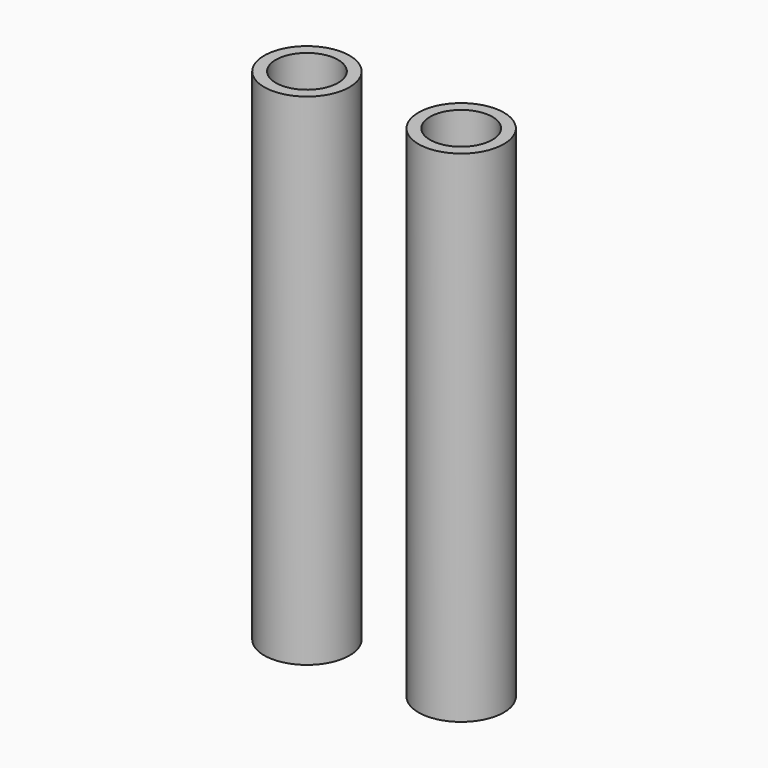
from build123d import *

# Parameters (mm, degrees)
F0_R     = 11.1
F0_R_2   = 8.1
F1_DEPTH = 130
F2_DEPTH = 130
F3_R     = 9.39300938
F4_DEPTH = 4


with BuildPart() as f1:
    # F0 (on Top) → F1 (new body)
    with BuildSketch(Plane.XY):
        with Locations((-21.5700976551, 11.2317660823)):
            Circle(F0_R)
        with Locations((-21.5700976551, 11.2317660823)):
            Circle(F0_R_2, mode=Mode.SUBTRACT)
    extrude(amount=F1_DEPTH)

    # F0 (on Top) → F2 (join)
    with BuildSketch(Plane.XY):
        with Locations((-21.5700976551, 11.2317660823)):
            Circle(F0_R)
        with Locations((-21.5700976551, 11.2317660823)):
            Circle(F0_R_2, mode=Mode.SUBTRACT)
    extrude(amount=F2_DEPTH)

    # F3 (on Top) → F4, piece 2 (join)
    with BuildSketch(Plane.XY):
        with Locations((-21.5700976551, 11.231767945)):
            Circle(F3_R)
    extrude(amount=F4_DEPTH)


with BuildPart() as f2:
    # F0 (on Top) → F2, piece 2 (new body)
    with BuildSketch(Plane.XY):
        with Locations((18.5068864375, 11.231767945)):
            Circle(F0_R)
        with Locations((18.5068864375, 11.231767945)):
            Circle(F0_R_2, mode=Mode.SUBTRACT)
    extrude(amount=F2_DEPTH)

    # F3 (on Top) → F4 (join)
    with BuildSketch(Plane.XY):
        with Locations((18.5068864375, 10.9764998779)):
            Circle(F3_R)
    extrude(amount=F4_DEPTH)


solid = Compound([f1.part, f2.part])
